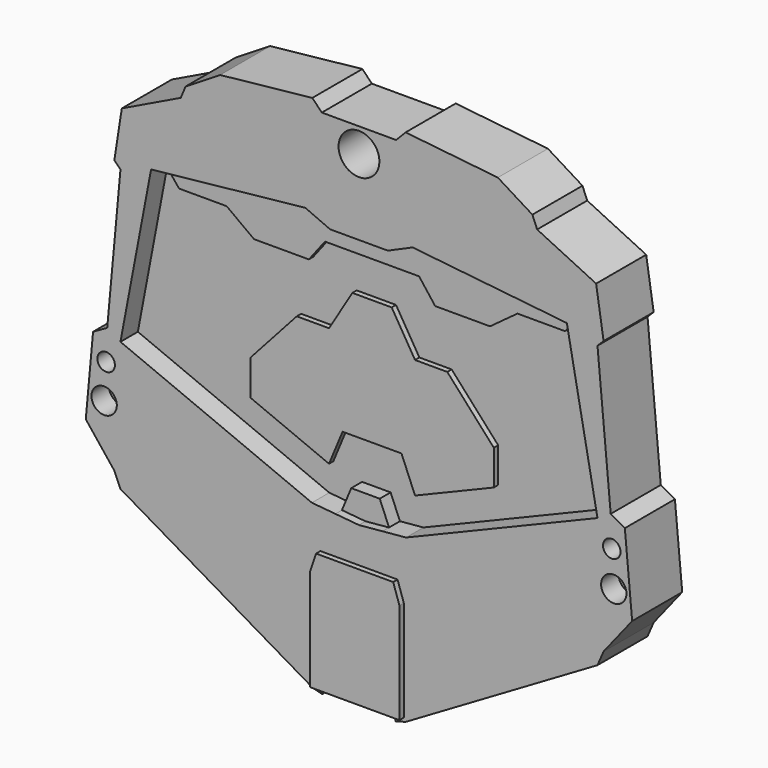
from build123d import *

# Parameters (mm, degrees)
F0_R     = 1.182239
F0_R_2   = 0.817997
F1_DEPTH = 5.842
F2_DEPTH = 3.81
F3_DEPTH = 5.08
F4_DEPTH = 4.318
F5_R     = 1.905
F6_DEPTH = 25.4
F7_DEPTH = 6.35


with BuildPart() as f1:
    # F0 (on Front) → F1 (new body)
    with BuildSketch(Plane.XZ):
        Polygon((-4.180855, -20.625193), (-4.353608, -20.920252), (-3.424949, -21.167446), (-3.28061, -20.625193), align=None)
        Polygon((3.424949, -21.167446), (4.353608, -20.920252), (4.180855, -20.625193), (3.28061, -20.625193), align=None)
        Polygon((22.26289, -6.835999), (22.26289, 1.657223), (4.394875, -5.754956), (2.197438, -5.957079), (0, -6.159202), (-2.197438, -5.957079), (-4.394875, -5.754956), (-22.26289, 1.657223), (-22.26289, -6.835999), (-22.832444, -9.118818), (-15.86828, -11.246894), (-14.217053, -15.145346), (-4.353608, -20.920252), (-4.180855, -20.625193), (-4.180855, -11.195441), (-3.601368, -9.465247), (0, -9.465247), (3.601368, -9.465247), (4.180855, -11.195441), (4.180855, -20.625193), (4.353608, -20.920252), (14.217053, -15.145346), (15.86828, -11.246894), (22.832444, -9.118818), align=None)
        Polygon((-15.86828, -11.246894), (-22.832444, -9.118818), (-22.26289, -10.434624), (-14.217053, -15.145346), align=None)
        Polygon((22.26289, -10.434624), (22.832444, -9.118818), (15.86828, -11.246894), (14.217053, -15.145346), align=None)
        Polygon((24.816887, 1.657223), (22.26289, 1.657223), (22.26289, -6.835999), (22.832444, -9.118818), (25.498668, -5.754956), align=None)
        with Locations((23.784082, -3.675047)):
            Circle(F0_R, mode=Mode.SUBTRACT)
        with Locations((23.597831, -0.42893)):
            Circle(F0_R_2, mode=Mode.SUBTRACT)
        Polygon((-22.26289, -6.835999), (-22.26289, 1.657223), (-24.816887, 1.657223), (-25.498668, -5.754956), (-22.832444, -9.118818), align=None)
        with Locations((-23.784082, -3.675047)):
            Circle(F0_R, mode=Mode.SUBTRACT)
        with Locations((-23.597831, -0.42893)):
            Circle(F0_R_2, mode=Mode.SUBTRACT)
        Polygon((-19.404403, 16.750786), (-22.26289, 15.816627), (-23.496922, 2.400486), (-22.26289, 1.657223), align=None)
        Polygon((23.496922, 2.400486), (22.26289, 15.816627), (19.404403, 16.750786), (22.26289, 1.657223), align=None)
        Polygon((24.816887, 1.657223), (23.496922, 2.400486), (22.26289, 1.657223), align=None)
        Polygon((-22.26289, 1.657223), (-23.496922, 2.400486), (-24.816887, 1.657223), align=None)
        Polygon((-19.404403, 16.750786), (-22.832444, 16.386179), (-22.26289, 15.816627), align=None)
        Polygon((22.26289, 15.816627), (22.832444, 16.386179), (19.404403, 16.750786), align=None)
        Polygon((22.832444, 16.386179), (22.136323, 20.879321), (5.009265, 22.700958), (2.695112, 21.684956), (0, 21.684956), (-2.695112, 21.684956), (-5.009265, 22.700958), (-22.136323, 20.879321), (-22.832444, 16.386179), (-19.404403, 16.750786), (-5.009265, 18.281856), (-2.695112, 17.265854), (0, 17.265854), (2.695112, 17.265854), (5.009265, 18.281856), (19.404403, 16.750786), align=None)
        Polygon((3.467637, 26.608711), (0, 26.608711), (-3.467637, 26.608711), (-4.353608, 27.524108), (-12.96019, 26.608711), (-16.187659, 24.61306), (-16.630644, 23.537237), (-22.136323, 20.879321), (-5.009265, 22.700958), (-2.695112, 21.684956), (0, 21.684956), (2.695112, 21.684956), (5.009265, 22.700958), (22.136323, 20.879321), (16.630644, 23.537237), (16.187659, 24.61306), (12.96019, 26.608711), (4.353608, 27.524108), align=None)
    extrude(amount=F1_DEPTH)

    # F0 (on Front) → F2 (join)
    with BuildSketch(Plane.XZ):
        with Locations((23.784082, -3.675047)):
            Circle(F0_R)
        with Locations((23.597831, -0.42893)):
            Circle(F0_R_2)
        with Locations((-23.784082, -3.675047)):
            Circle(F0_R)
        with Locations((-23.597831, -0.42893)):
            Circle(F0_R_2)
        Polygon((22.26289, 1.657223), (19.404403, 16.750786), (18.012892, 15.012917), (13.572707, 15.012917), (11.013955, 13.131482), (5.896451, 13.131482), (4.394875, 15.088174), (0, 15.088174), (-4.394875, 15.088174), (-5.896451, 13.131482), (-11.013955, 13.131482), (-13.572707, 15.012917), (-18.012892, 15.012917), (-19.404403, 16.750786), (-22.26289, 1.657223), (-4.394875, -5.754956), (-2.197438, -5.957079), (-1.331172, -3.868833), (0, -3.868833), (1.331172, -3.868833), (2.197438, -5.957079), (4.394875, -5.754956), align=None)
        Polygon((-2.750259, 0), (-4.015016, -3.048861), (-11.364689, 0), (-11.364689, 3.272761), (-7.025312, 8.089235), (-4.015016, 8.089235), (-1.832551, 11.701591), (0, 11.701591), (1.832551, 11.701591), (4.015016, 8.089235), (7.025312, 8.089235), (11.364689, 3.272761), (11.364689, 0), (4.015016, -3.048861), (2.750259, 0), (0, 0), align=None, mode=Mode.SUBTRACT)
    extrude(amount=F2_DEPTH)

    # F0 (on Front) → F3 (join)
    with BuildSketch(Plane.XZ):
        Polygon((0, -6.159202), (2.197438, -5.957079), (1.331172, -3.868833), (0, -3.868833), (-1.331172, -3.868833), (-2.197438, -5.957079), align=None)
    extrude(amount=F3_DEPTH)

    # F0 (on Front) → F4 (join)
    with BuildSketch(Plane.XZ):
        Polygon((-11.364689, 0), (-4.015016, -3.048861), (-2.750259, 0), (0, 0), (2.750259, 0), (4.015016, -3.048861), (11.364689, 0), (11.364689, 3.272761), (7.025312, 8.089235), (4.015016, 8.089235), (1.832551, 11.701591), (0, 11.701591), (-1.832551, 11.701591), (-4.015016, 8.089235), (-7.025312, 8.089235), (-11.364689, 3.272761), align=None)
        Polygon((18.012892, 15.012917), (19.404403, 16.750786), (5.009265, 18.281856), (2.695112, 17.265854), (0, 17.265854), (-2.695112, 17.265854), (-5.009265, 18.281856), (-19.404403, 16.750786), (-18.012892, 15.012917), (-13.572707, 15.012917), (-11.013955, 13.131482), (-5.896451, 13.131482), (-4.394875, 15.088174), (0, 15.088174), (4.394875, 15.088174), (5.896451, 13.131482), (11.013955, 13.131482), (13.572707, 15.012917), align=None)
    extrude(amount=F4_DEPTH)

    # F5 (on face) → F6 (cut)
    with BuildSketch(Plane.XZ.offset(5.842)):
        with Locations((0, 24.332419)):
            Circle(F5_R)
    extrude(amount=-F6_DEPTH, mode=Mode.SUBTRACT)

    # F0 (on Front) → F7 (join)
    with BuildSketch(Plane.XZ):
        Polygon((3.28061, -20.625193), (4.180855, -20.625193), (4.180855, -11.195441), (3.601368, -9.465247), (0, -9.465247), (-3.601368, -9.465247), (-4.180855, -11.195441), (-4.180855, -20.625193), (-3.28061, -20.625193), (0, -20.625193), align=None)
    extrude(amount=F7_DEPTH)


solid = f1.part
